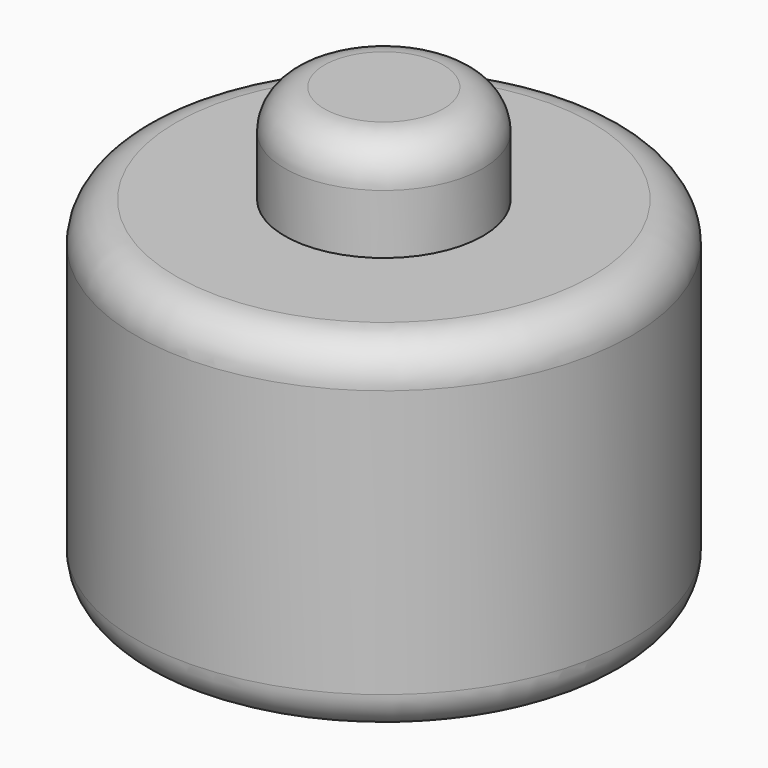
from build123d import *

# Parameters (mm, degrees)
F0_R     = 31.75
F1_DEPTH = 44.45
F2_R     = 12.7
F3_DEPTH = 12.7
F4_R     = 5.08


with BuildPart() as f1:
    # F0 (on Top) → F1 (new body)
    with BuildSketch(Plane.XY):
        with Locations((-9.30992, 5.807177)):
            Circle(F0_R)
    extrude(amount=F1_DEPTH)

    # F2 (on face) → F3 (join)
    with BuildSketch(Plane.XY.offset(44.45)):
        with Locations((-9.30992, 5.807177)):
            Circle(F2_R)
    extrude(amount=F3_DEPTH)

    # F4
    f4_edges = [f1.edges().sort_by_distance(p)[0] for p in [
        (-41.05992, 5.807177, 44.45),
        (-41.05992, 5.807177, 0),
        (-22.00992, 5.807177, 57.15),
    ]]
    fillet(f4_edges, radius=F4_R)


solid = f1.part
